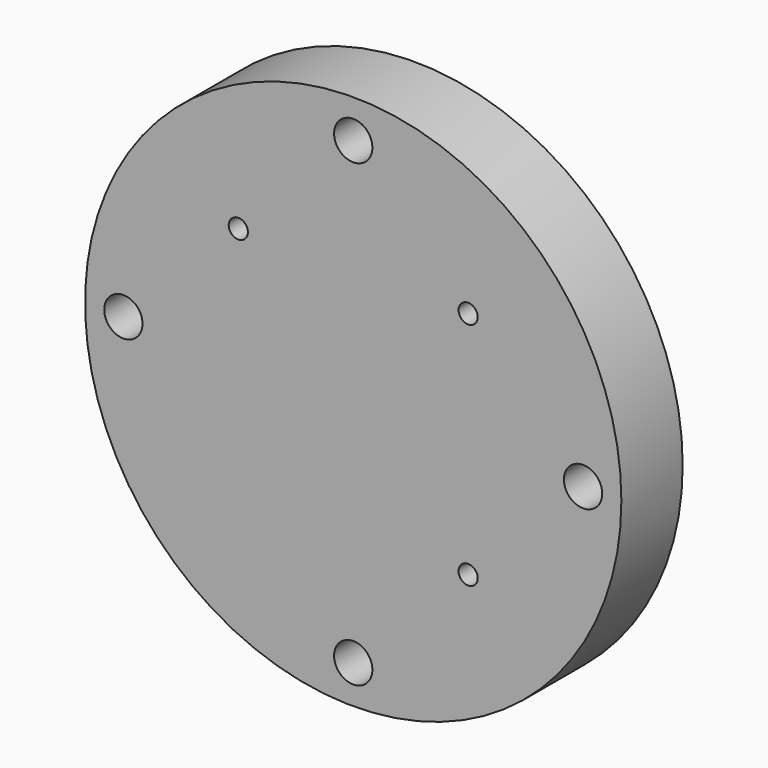
from build123d import *

# Parameters (mm, degrees)
F0_R     = 88.9
F0_R_2   = 6.35
F0_R_3   = 3.175
F1_DEPTH = 25.4


with BuildPart() as f1:
    # F0 (on Front) → F1 (new body)
    with BuildSketch(Plane.XZ):
        Circle(F0_R)
        with Locations((0, -76.2)):
            Circle(F0_R_2, mode=Mode.SUBTRACT)
        with Locations((38.1, -38.1)):
            Circle(F0_R_3, mode=Mode.SUBTRACT)
        with Locations((-76.2, 0)):
            Circle(F0_R_2, mode=Mode.SUBTRACT)
        with Locations((-38.1, 38.1)):
            Circle(F0_R_3, mode=Mode.SUBTRACT)
        with Locations((38.1, 38.1)):
            Circle(F0_R_3, mode=Mode.SUBTRACT)
        with Locations((76.2, 0)):
            Circle(F0_R_2, mode=Mode.SUBTRACT)
        with Locations((0, 76.2)):
            Circle(F0_R_2, mode=Mode.SUBTRACT)
    extrude(amount=F1_DEPTH)


solid = f1.part
